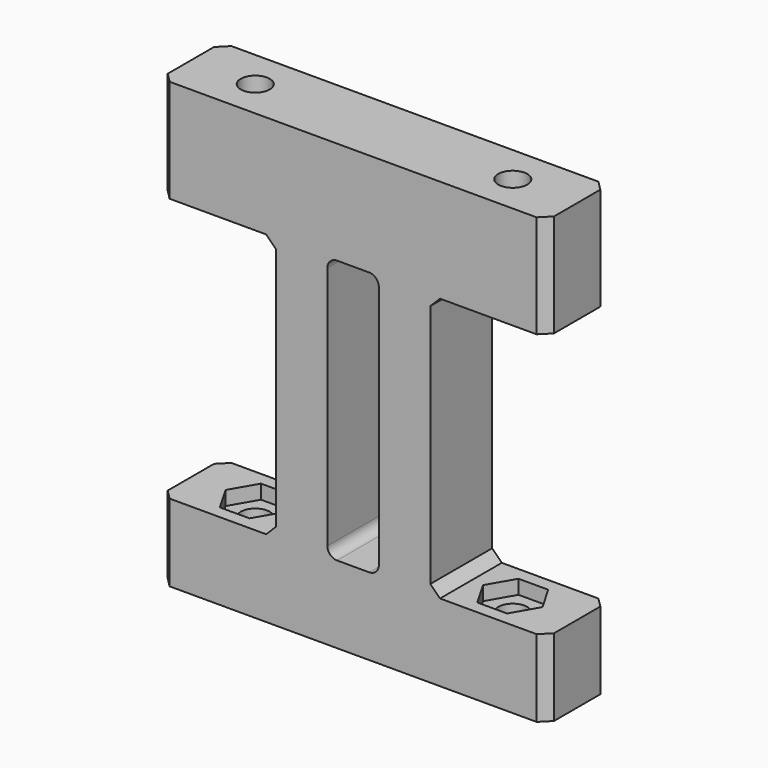
from build123d import *

# Parameters (mm, degrees)
F1_DEPTH  = 12
F2_R      = 2.25
F3_DEPTH  = 16
F4_SIZE   = 1.5
F5_W      = 8
F5_H      = 41
F6_DEPTH  = 12.001
F7_R      = 1.5
F8_R      = 2.25
F9_DEPTH  = 12
F11_DEPTH = 2.2


with BuildPart() as f1:
    # F0 (on Front) → F1 (new body)
    with BuildSketch(Plane.XZ):
        Polygon((0, 12), (0, 0), (60, 0), (60, 12), (42, 12), (42, 53), (60, 53), (60, 69), (0, 69), (0, 53), (18, 53), (18, 12), align=None)
    extrude(amount=F1_DEPTH)

    # F2 (on face) → F3 (cut, through all)
    with BuildSketch(Plane(origin=(0, 0, 53), x_dir=(1, 0, 0), z_dir=(0, 0, -1))):
        with Locations((10, 6)):
            Circle(F2_R)
        with Locations((50, 6)):
            Circle(F2_R)
    extrude(amount=-F3_DEPTH, mode=Mode.SUBTRACT)

    # F4
    f4_edges = [f1.edges().sort_by_distance(p)[0] for p in [
        (60, -12, 61),
        (60, -12, 6),
        (60, 0, 6),
        (60, 0, 61),
        (0, -12, 61),
        (0, 0, 61),
        (0, 0, 6),
        (0, -12, 6),
        (18, -6, 12),
        (18, -6, 53),
        (42, -6, 53),
        (42, -6, 12),
    ]]
    chamfer(f4_edges, length=F4_SIZE)

    # F5 (on face) → F6 (cut, through all)
    with BuildSketch(Plane.XZ.offset(12)):
        with Locations((30, 32.5)):
            Rectangle(F5_W, F5_H)
    extrude(amount=-F6_DEPTH, mode=Mode.SUBTRACT)

    # F7
    f7_edges = [f1.edges().sort_by_distance(p)[0] for p in [
        (26, -6, 53),
        (34, -6, 53),
        (34, -6, 12),
        (26, -6, 12),
    ]]
    fillet(f7_edges, radius=F7_R)

    # F8 (on face) → F9 (cut, through all)
    with BuildSketch(Plane(origin=(0, 0, 0), x_dir=(1, 0, 0), z_dir=(0, 0, -1))):
        with Locations((50, 6)):
            Circle(F8_R)
        with Locations((10, 6)):
            Circle(F8_R)
    extrude(amount=-F9_DEPTH, mode=Mode.SUBTRACT)

    # F10 (on face) → F11 (cut)
    with BuildSketch(Plane.XY.offset(12)):
        Polygon((7.690599, -10), (12.309401, -10), (14.618802, -6), (12.309401, -2), (7.690599, -2), (5.381198, -6), align=None)
        Polygon((52.314719, -9.996925), (54.618798, -5.993857), (52.304079, -1.996932), (47.685281, -2.003075), (45.381202, -6.006143), (47.695921, -10.003068), align=None)
    extrude(amount=-F11_DEPTH, mode=Mode.SUBTRACT)


solid = f1.part
